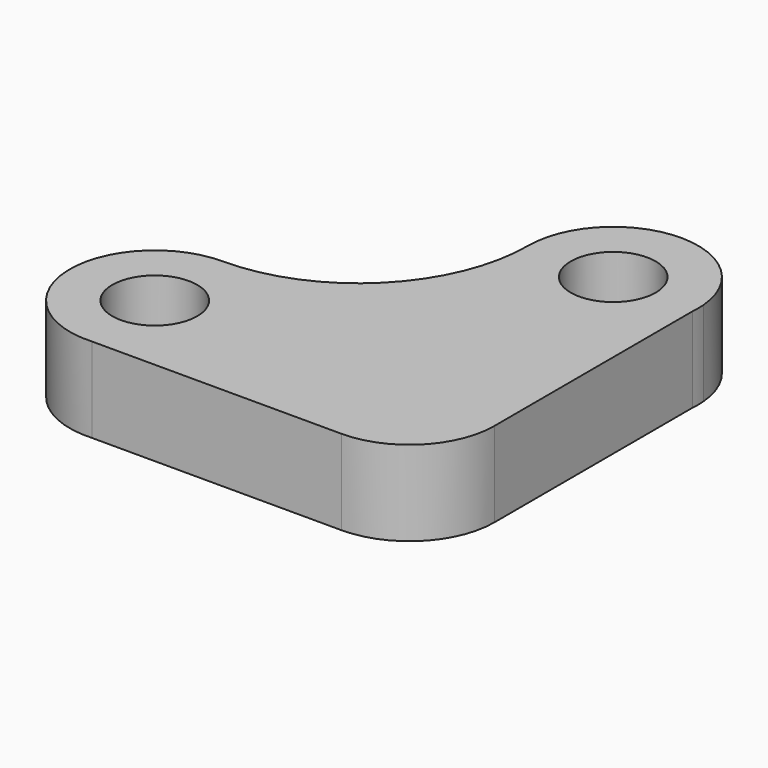
from build123d import *

# Parameters (mm, degrees)
F1_DEPTH = 5
F3_D     = 5


with BuildPart() as f1:
    # F0 (on Top) → F1 (new body)
    with BuildSketch(Plane.XY):
        with BuildLine():
            Line((-14.706516, -4.991379), (-0.002931, -4.999999))
            ThreePointArc((-0.002931, -4.999999), (3.536527, -3.53454), (4.999997, 0.005741))
            Line((4.999997, 0.005741), (4.98325, 14.591081))
            Line((4.98325, 14.591081), (4.982298, 15.420361))
            ThreePointArc((4.982298, 15.420361), (-0.210367, 19.995573), (-5, 15))
            ThreePointArc((-5, 15), (-7.928932, 7.928932), (-15, 5))
            ThreePointArc((-15, 5), (-19.997844, -0.146805), (-14.706516, -4.991379))
        make_face()
        with BuildLine():
            Line((4.982298, 15.420361), (4.98325, 14.591081))
            ThreePointArc((4.98325, 14.591081), (4.999997, 15.005741), (4.982298, 15.420361))
        make_face()
    extrude(amount=F1_DEPTH)

    # F3 (through all)
    with Locations(Plane.XY.offset(5)):
        with Locations((0, 15), (-15, 0)):
            Hole(F3_D / 2)


solid = f1.part
